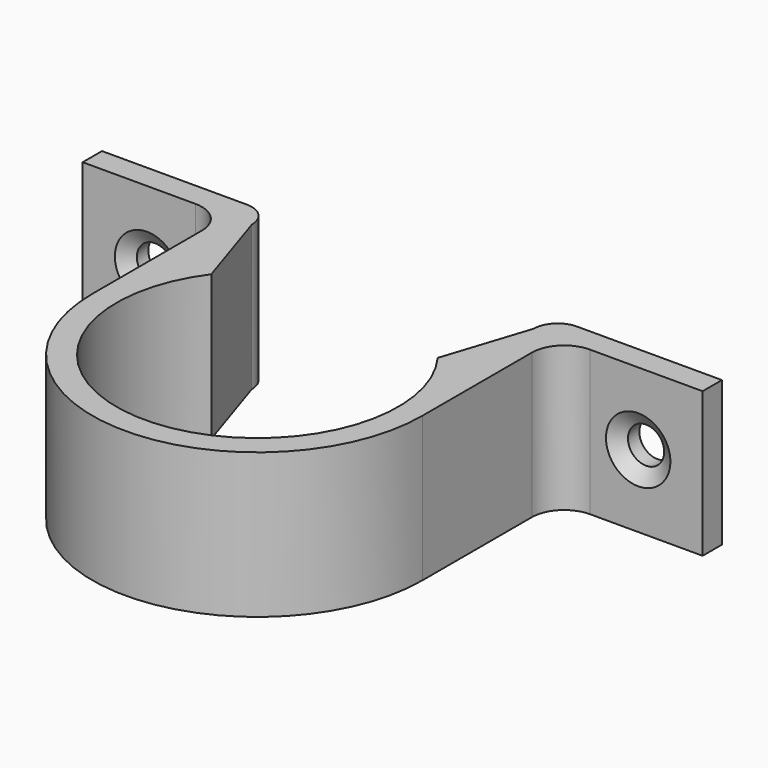
from build123d import *

# Parameters (mm, degrees)
F1_DEPTH       = 18
F3_D           = 4.5
F3_CSINK_D     = 8
F3_CSINK_ANGLE = 110


with BuildPart() as f1:
    # F0 (on Top) → F1 (new body)
    with BuildSketch(Plane.XY):
        with BuildLine():
            Line((-20.5, 0), (-38.5, 0))
            Line((-38.5, 0), (-38.5, -3))
            Line((-38.5, -3), (-24.5, -3))
            ThreePointArc((-24.5, -3), (-21.6715728753, -4.1715728753), (-20.5, -7))
            Line((-20.5, -7), (-20.5, -24))
            ThreePointArc((-20.5, -24), (0, -44.5), (20.5, -24))
            Line((20.5, -24), (20.5, -7))
            ThreePointArc((20.5, -7), (21.6715728753, -4.1715728753), (24.5, -3))
            Line((24.5, -3), (38.5, -3))
            Line((38.5, -3), (38.5, 0))
            Line((38.5, 0), (20.5, 0))
            ThreePointArc((20.5, 0), (18.3786796564, -0.8786796564), (17.5, -3))
            Line((17.5, -3), (14.0615249792, -13.5825379646))
            ThreePointArc((14.0615249792, -13.5825379646), (0, -41.5), (-14.0615249792, -13.5825379646))
            Line((-14.0615249792, -13.5825379646), (-17.5, -3))
            ThreePointArc((-17.5, -3), (-18.3786796564, -0.8786796564), (-20.5, 0))
        make_face()
    extrude(amount=F1_DEPTH)

    # F3 (through all)
    with Locations(Plane.XZ.offset(3)):
        with Locations((-30.5, 9), (30.5, 9)):
            CounterSinkHole(F3_D / 2, F3_CSINK_D / 2, counter_sink_angle=F3_CSINK_ANGLE)


solid = f1.part
